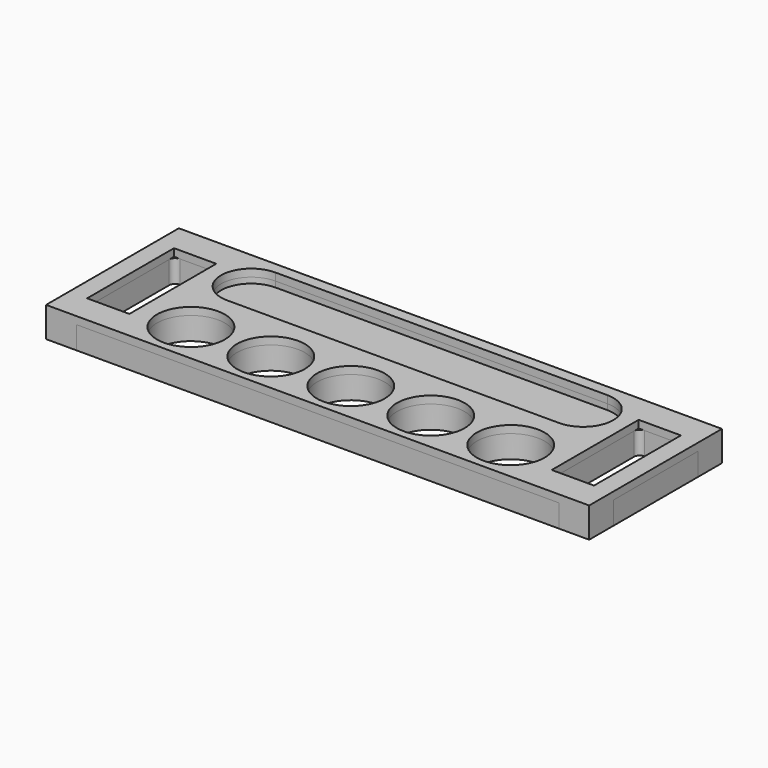
from build123d import *

# Parameters (mm, degrees)
F0_W     = 457.2
F0_H     = 139.7
F0_R     = 28.575
F0_W_2   = 35.56
F0_H_2   = 91.44
F1_DEPTH = 25.4
F2_W     = 457.2
F2_H     = 139.7
F2_R     = 28.575
F3_DEPTH = 19.05
F5_DEPTH = 4.7625
F6_R     = 25.4


with BuildPart() as f1:
    # F0 (on Top) → F1 (new body)
    with BuildSketch(Plane.XY):
        Rectangle(F0_W, F0_H)
        with Locations((-134.62, -34.925)):
            Circle(F0_R, mode=Mode.SUBTRACT)
        with Locations((-67.31, -34.925)):
            Circle(F0_R, mode=Mode.SUBTRACT)
        with Locations((0, -34.925)):
            Circle(F0_R, mode=Mode.SUBTRACT)
        with Locations((67.31, -34.925)):
            Circle(F0_R, mode=Mode.SUBTRACT)
        with Locations((134.62, -34.925)):
            Circle(F0_R, mode=Mode.SUBTRACT)
        with Locations((-195.58, 0)):
            Rectangle(F0_W_2, F0_H_2, mode=Mode.SUBTRACT)
        with Locations((195.58, 0)):
            Rectangle(F0_W_2, F0_H_2, mode=Mode.SUBTRACT)
        with BuildLine():
            ThreePointArc((139.7, 60.325), (165.100056, 34.9250275), (139.700055, 9.525))
            Line((139.700055, 9.525), (-139.700054, 9.525))
            ThreePointArc((-139.700054, 9.525), (-165.100056, 34.925027), (-139.7, 60.325))
            Line((-139.7, 60.325), (139.7, 60.325))
        make_face(mode=Mode.SUBTRACT)
    extrude(amount=F1_DEPTH)


with BuildPart() as f3:
    # F2 (on Top) → F3 (new body)
    with BuildSketch(Plane.XY):
        Rectangle(F2_W, F2_H)
        with Locations((-134.62, -34.925)):
            Circle(F2_R, mode=Mode.SUBTRACT)
        with Locations((-67.31, -34.925)):
            Circle(F2_R, mode=Mode.SUBTRACT)
        with Locations((0, -34.925)):
            Circle(F2_R, mode=Mode.SUBTRACT)
        with Locations((67.31, -34.925)):
            Circle(F2_R, mode=Mode.SUBTRACT)
        with Locations((134.62, -34.925)):
            Circle(F2_R, mode=Mode.SUBTRACT)
        with BuildLine():
            ThreePointArc((-177.8, -40.64), (-179.2878975516, -44.2321024484), (-182.88, -45.72))
            Line((-182.88, -45.72), (-208.28, -45.72))
            ThreePointArc((-208.28, -45.72), (-211.8721024484, -44.2321024484), (-213.36, -40.64))
            Line((-213.36, -40.64), (-213.36, 40.64))
            ThreePointArc((-213.36, 40.64), (-211.8721024484, 44.2321024484), (-208.28, 45.72))
            Line((-208.28, 45.72), (-182.88, 45.72))
            ThreePointArc((-182.88, 45.72), (-179.2878975516, 44.2321024484), (-177.8, 40.64))
            Line((-177.8, 40.64), (-177.8, -40.64))
        make_face(mode=Mode.SUBTRACT)
        with BuildLine():
            ThreePointArc((182.88, -45.72), (179.2878975516, -44.2321024484), (177.8, -40.64))
            Line((177.8, -40.64), (177.8, 40.64))
            ThreePointArc((177.8, 40.64), (179.2878975516, 44.2321024484), (182.88, 45.72))
            Line((182.88, 45.72), (208.28, 45.72))
            ThreePointArc((208.28, 45.72), (211.8721024484, 44.2321024484), (213.36, 40.64))
            Line((213.36, 40.64), (213.36, -40.64))
            ThreePointArc((213.36, -40.64), (211.8721024484, -44.2321024484), (208.28, -45.72))
            Line((208.28, -45.72), (182.88, -45.72))
        make_face(mode=Mode.SUBTRACT)
    extrude(amount=F3_DEPTH)

    # F4 (on face) → F5 (cut)
    with BuildSketch(Plane.XY.offset(19.05)):
        with BuildLine():
            ThreePointArc((-139.7, 60.325), (-165.1, 34.925), (-139.7, 9.525))
            Line((-139.7, 9.525), (139.7, 9.525))
            ThreePointArc((139.7, 9.525), (165.1, 34.925), (139.7, 60.325))
            Line((139.7, 60.325), (-139.7, 60.325))
        make_face()
    extrude(amount=-F5_DEPTH, mode=Mode.SUBTRACT)

    # F6
    f6_edges = [f3.edges().sort_by_distance(p)[0] for p in [
        (228.6, -69.85, 9.525),
        (228.6, 69.85, 9.525),
        (-228.6, -69.85, 9.525),
        (-228.6, 69.85, 9.525),
    ]]
    fillet(f6_edges, radius=F6_R)


solid = Compound([f1.part, f3.part])
